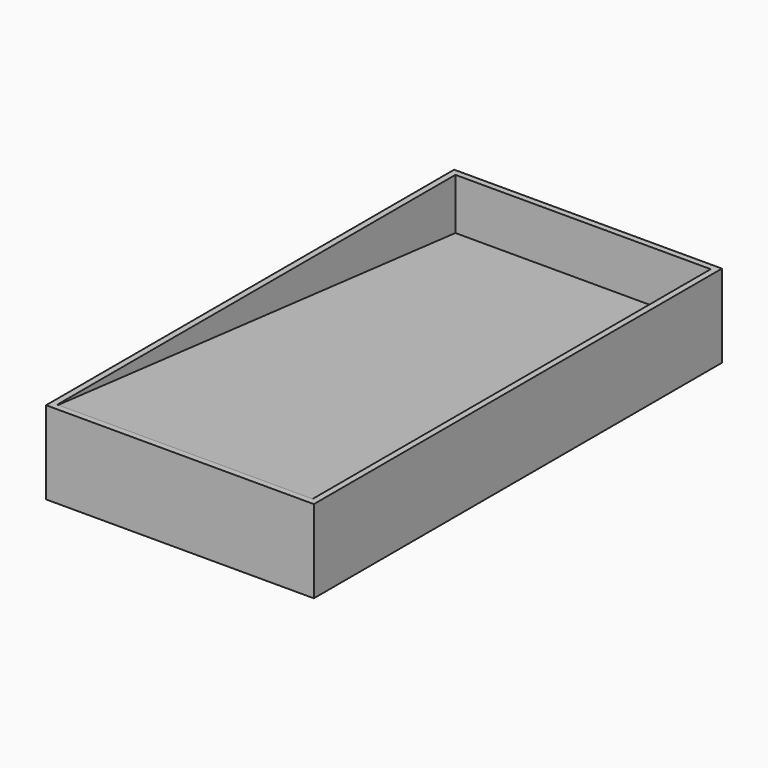
from build123d import *

# Parameters (mm, degrees)
F0_R     = 6.35
F0_R_2   = 29
F1_DEPTH = 19.05
F0_W     = 820
F0_H     = 1562.1
F2_DEPTH = 254
F4_DEPTH = 819.9882


with BuildPart() as f1:
    # F0 (on Top) → F1 (new body)
    with BuildSketch(Plane.XY):
        with BuildLine():
            Line((-357.9300045967, 709.0338208199), (-357.9300045967, -441.2995662034))
            Line((-357.9300045967, -441.2995662034), (-38.1, -557.7961837769))
            ThreePointArc((-38.1, -557.7961837769), (0, -519.6961837769), (38.1, -557.7961837769))
            Line((38.1, -557.7961837769), (357.9300045967, -441.2995662034))
            Line((357.9300045967, -441.2995662034), (357.9300045967, 709.0338208199))
            Line((357.9300045967, 709.0338208199), (-357.9300045967, 709.0338208199))
        make_face()
        with Locations((0, -373.6461837769)):
            Circle(F0_R, mode=Mode.SUBTRACT)
        with Locations((0, -132.3461837769)):
            Circle(F0_R, mode=Mode.SUBTRACT)
        with Locations((0, -84.2961837769)):
            Circle(F0_R_2, mode=Mode.SUBTRACT)
        with Locations((-228.5999953747, 114.8538155079)):
            Circle(F0_R, mode=Mode.SUBTRACT)
        with Locations((-228.6, 162.9038156998)):
            Circle(F0_R_2, mode=Mode.SUBTRACT)
        with Locations((-304.8, 655.9038162231)):
            Circle(F0_R_2, mode=Mode.SUBTRACT)
        with Locations((-152.4, 655.9038162231)):
            Circle(F0_R_2, mode=Mode.SUBTRACT)
        with Locations((228.5999959257, 114.8538155079)):
            Circle(F0_R, mode=Mode.SUBTRACT)
        with Locations((228.6, 162.9038155079)):
            Circle(F0_R_2, mode=Mode.SUBTRACT)
        with Locations((0, 372.9038162231)):
            Circle(F0_R_2, mode=Mode.SUBTRACT)
        with Locations((0, 655.9038162231)):
            Circle(F0_R_2, mode=Mode.SUBTRACT)
        with Locations((152.4, 655.9038162231)):
            Circle(F0_R_2, mode=Mode.SUBTRACT)
        with Locations((304.8, 655.9038162231)):
            Circle(F0_R_2, mode=Mode.SUBTRACT)
        Polygon((357.9300045967, -557.7961837769), (357.9300045967, -441.2995662034), (38.1, -557.7961837769), align=None)
        Polygon((-38.1, -557.7961837769), (-357.9300045967, -441.2995662034), (-357.9300045967, -557.7961837769), align=None)
        with BuildLine():
            Line((-38.1, -557.7961837769), (-357.9300045967, -557.7961837769))
            Line((-357.9300045967, -557.7961837769), (-357.9300045967, -748.9261883736))
            Line((-357.9300045967, -748.9261883736), (357.9300045967, -748.9261883736))
            Line((357.9300045967, -748.9261883736), (357.9300045967, -557.7961837769))
            Line((357.9300045967, -557.7961837769), (38.1, -557.7961837769))
            Line((38.1, -557.7961837769), (6.35, -557.7961837769))
            ThreePointArc((6.35, -557.7961837769), (0, -564.1461837769), (-6.35, -557.7961837769))
            Line((-6.35, -557.7961837769), (-38.1, -557.7961837769))
        make_face()
        with BuildLine():
            ThreePointArc((38.1, -557.7961837769), (0, -519.6961837769), (-38.1, -557.7961837769))
            Line((-38.1, -557.7961837769), (-6.35, -557.7961837769))
            ThreePointArc((-6.35, -557.7961837769), (0, -551.4461837769), (6.35, -557.7961837769))
            Line((6.35, -557.7961837769), (38.1, -557.7961837769))
        make_face()
        Polygon((390.95, 742.0538162231), (-390.95, 742.0538162231), (-390.95, -429.2721837769), (-357.9300045967, -441.2995662034), (-357.9300045967, 709.0338208199), (357.9300045967, 709.0338208199), (357.9300045967, -441.2995662034), (390.95, -429.2721837769), align=None)
        Polygon((-357.9300045967, -441.2995662034), (-390.95, -429.2721837769), (-390.95, -557.7961837769), (-357.9300045967, -557.7961837769), align=None)
        Polygon((-357.9300045967, -557.7961837769), (-390.95, -557.7961837769), (-390.95, -781.9461837769), (390.95, -781.9461837769), (390.95, -557.7961837769), (357.9300045967, -557.7961837769), (357.9300045967, -748.9261883736), (-357.9300045967, -748.9261883736), align=None)
        Polygon((390.95, -557.7961837769), (390.95, -429.2721837769), (357.9300045967, -441.2995662034), (357.9300045967, -557.7961837769), align=None)
    extrude(amount=F1_DEPTH)

    # F0 (on Top) → F2 (join)
    with BuildSketch(Plane.XY):
        with Locations((0, -19.9461837769)):
            Rectangle(F0_W, F0_H)
        Polygon((-390.95, -429.2721837769), (-390.95, 742.0538162231), (390.95, 742.0538162231), (390.95, -429.2721837769), (390.95, -557.7961837769), (390.95, -781.9461837769), (-390.95, -781.9461837769), (-390.95, -557.7961837769), align=None, mode=Mode.SUBTRACT)
    extrude(amount=F2_DEPTH)

    # F3 (on face) → F4 (join)
    with BuildSketch(Plane.YZ.offset(410)):
        Polygon((-800.9961837769, 234.95), (761.1038162231, 76.2), (761.1038162231, 95.25), (-800.9961837769, 254), align=None)
    extrude(amount=-F4_DEPTH)


solid = f1.part
